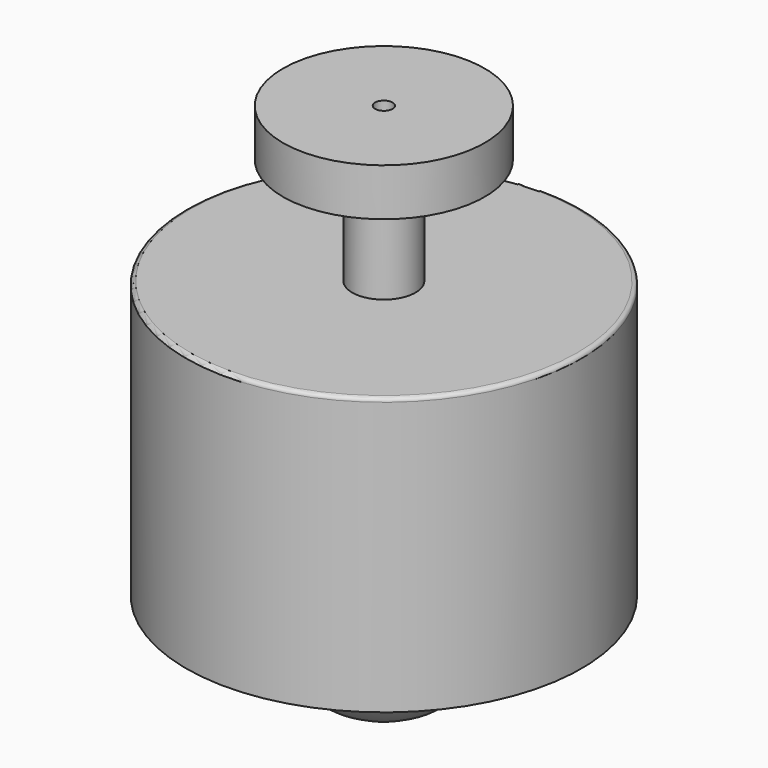
from build123d import *

# Parameters (mm, degrees)
F3_R = 1.5875
F0_W = 0.79375
F0_H = 42.8625


with BuildPart() as f1:
    # F0 (on Front) → F1 (revolve)
    with BuildSketch(Plane.XZ):
        with BuildLine():
            Line((0, -39.6875), (0, 39.6875))
            ThreePointArc((0, 39.6875), (-39.6875, 0), (0, -39.6875))
        make_face()
    revolve(axis=Axis((0, 0, 0), (0, 0, -1)))


with BuildPart() as f2:
    # F0 (on Front) → F2 (revolve)
    with BuildSketch(Plane.XZ):
        Polygon((-79.375, 0), (-77.7875, 0), (-77.7875, 109.5375), (-22.225, 109.5375), (-7.9375, 109.5375), (-7.9375, 111.125), (-11.90625, 111.125), (-12.7, 111.125), (-79.375, 111.125), align=None)
    revolve(axis=Axis((0, 0, 61.009362), (0, 0, 1)))

    # F3
    f3_edges = [f2.edges().sort_by_distance(p)[0] for p in [
        (79.375, 0, 111.125),
    ]]
    fillet(f3_edges, radius=F3_R)


with BuildPart() as f4:
    # F0 (on Front) → F4 (revolve)
    with BuildSketch(Plane.XZ):
        Polygon((-7.9375, 109.5375), (-22.225, 109.5375), (-22.225, 52.3875), (-20.6375, 52.3875), (-20.6375, 107.95), (-7.9375, 107.95), align=None)
    revolve(axis=Axis((0, 0, 61.009362), (0, 0, 1)))


with BuildPart() as f5:
    # F0 (on Front) → F5 (revolve)
    with BuildSketch(Plane.XZ):
        with Locations((-12.303125, 132.55625)):
            Rectangle(F0_W, F0_H)
    revolve(axis=Axis((0, 0, 61.009362), (0, 0, 1)))


with BuildPart() as f6:
    # F0 (on Front) → F6 (revolve)
    with BuildSketch(Plane.XZ):
        Polygon((-40.48125, 153.9875), (-12.7, 153.9875), (-11.90625, 153.9875), (-3.4925, 153.9875), (-3.4925, 173.0375), (-40.48125, 173.0375), align=None)
    revolve(axis=Axis((0, 0, 61.009362), (0, 0, 1)))


solid = Compound([f1.part, f2.part, f4.part, f5.part, f6.part])
